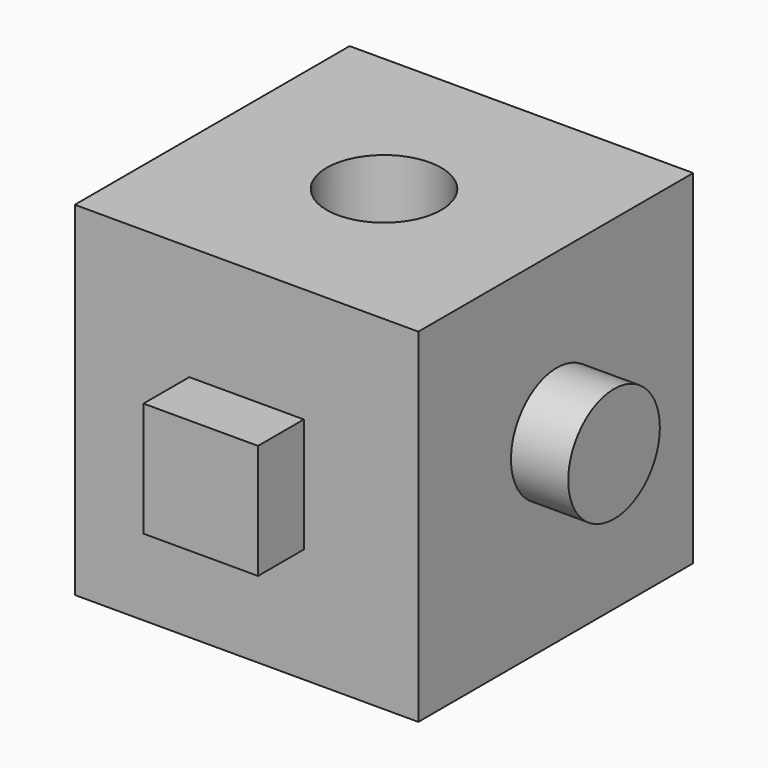
from build123d import *

# Parameters (mm, degrees)
F0_W     = 76.2
F0_H     = 76.2
F1_DEPTH = 76.2
F3_D     = 25.4
F4_W     = 25.4
F4_H     = 25.4
F5_DEPTH = 12.7
F6_R     = 12.7
F7_DEPTH = 12.7


with BuildPart() as f1:
    # F0 (on Top) → F1 (new body)
    with BuildSketch(Plane.XY):
        with Locations((38.1, 26.907814)):
            Rectangle(F0_W, F0_H)
    extrude(amount=F1_DEPTH)

    # F3 (through all)
    with Locations(Plane.XY.offset(76.2)):
        with Locations((38.1, 26.907814)):
            Hole(F3_D / 2)

    # F4 (on face) → F5 (join)
    with BuildSketch(Plane.XZ.offset(11.192186)):
        with Locations((38.1, 38.1)):
            Rectangle(F4_W, F4_H)
    extrude(amount=F5_DEPTH)

    # F6 (on face) → F7 (join)
    with BuildSketch(Plane.YZ.offset(76.2)):
        with Locations((27.182279, 40.855207)):
            Circle(F6_R)
    extrude(amount=F7_DEPTH)


solid = f1.part
